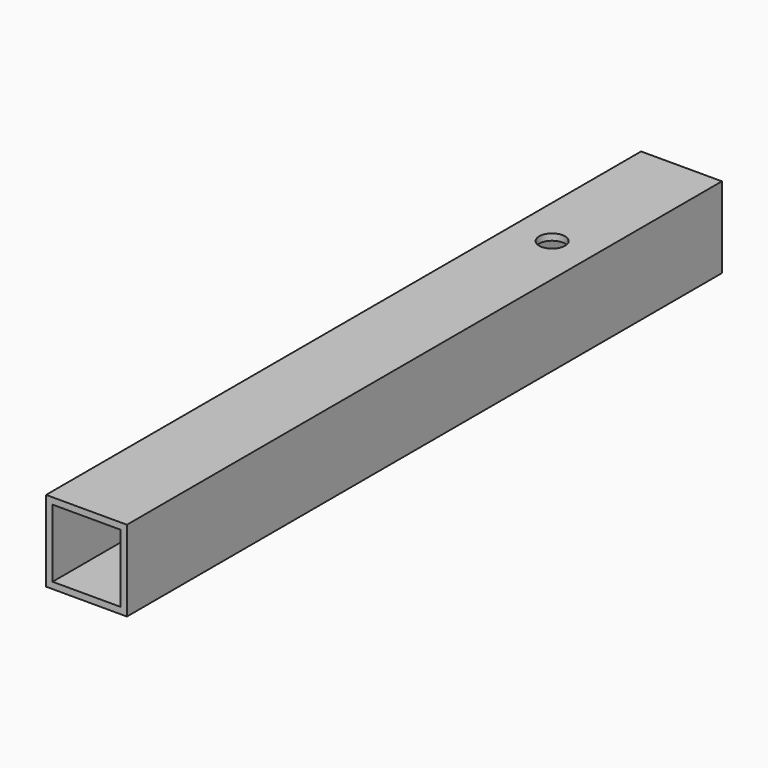
from build123d import *

# Parameters (mm, degrees)
F0_W     = 25
F0_H     = 25
F0_W_2   = 21
F0_H_2   = 21
F1_DEPTH = 230
F3_D     = 8
F3_DEPTH = 5


with BuildPart() as f1:
    # F0 (on Front) → F1 (new body)
    with BuildSketch(Plane.XZ):
        with Locations((12.5, 12.5)):
            Rectangle(F0_W, F0_H)
        with Locations((12.5, 12.5)):
            Rectangle(F0_W_2, F0_H_2, mode=Mode.SUBTRACT)
    extrude(amount=F1_DEPTH)

    # F3
    with Locations(Plane.XY.offset(25)):
        with Locations((12.5, -50)):
            Hole(F3_D / 2, depth=F3_DEPTH)


solid = f1.part
